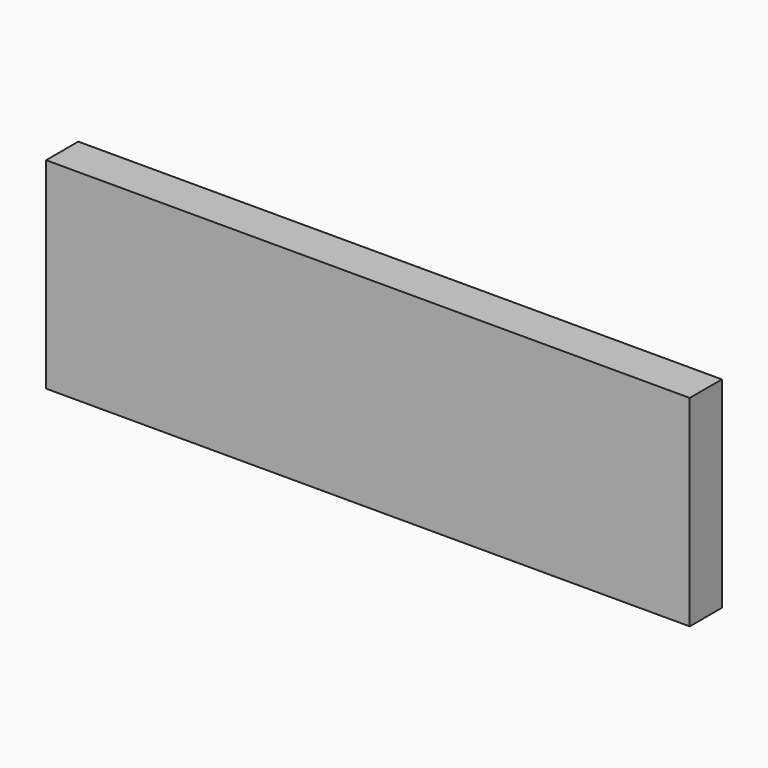
from build123d import *

# Parameters (mm, degrees)
SKETCH_W      = 160
SKETCH_H      = 10
EXTRUDE_DEPTH = 50


with BuildPart() as part:
    # Sketch → Extrude (new body)
    with BuildSketch(Plane.XY):
        Rectangle(SKETCH_W, SKETCH_H)
    extrude(amount=EXTRUDE_DEPTH)


solid = part.part
